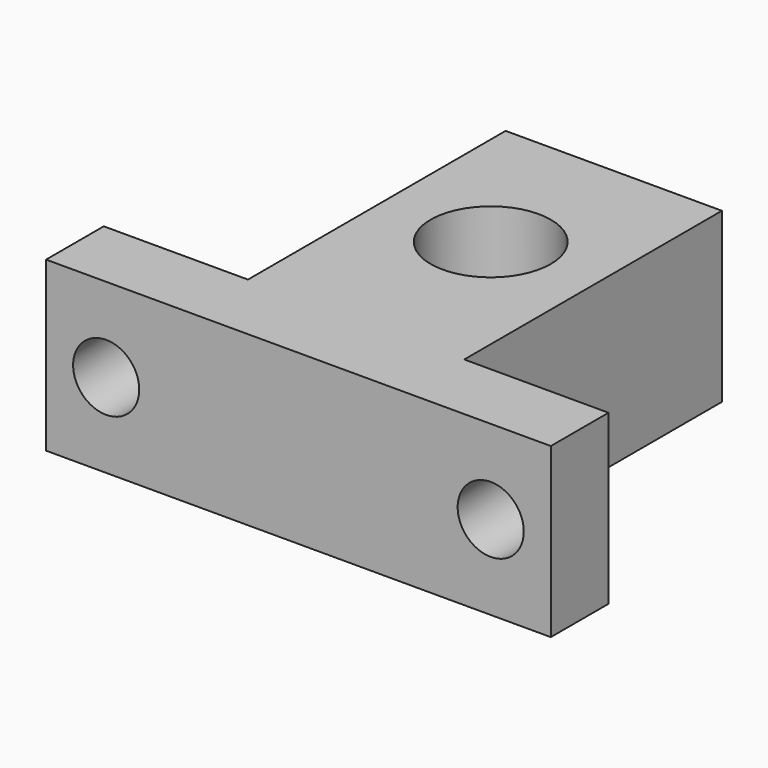
from build123d import *

# Parameters (mm, degrees)
F0_R     = 5
F1_DEPTH = 14
F2_R     = 2.75
F3_DEPTH = 6


with BuildPart() as f1:
    # F0 (on Top) → F1 (new body)
    with BuildSketch(Plane.XY):
        Polygon((9, 32.8), (-9, 32.8), (-9, 6), (-21, 6), (-21, 0), (21, 0), (21, 6), (9, 6), align=None)
        with Locations((0, 20)):
            Circle(F0_R, mode=Mode.SUBTRACT)
    extrude(amount=F1_DEPTH)

    # F2 (on Front) → F3 (cut)
    with BuildSketch(Plane.XZ):
        with Locations((-16, 7)):
            Circle(F2_R)
        with Locations((16, 7)):
            Circle(F2_R)
    extrude(amount=-F3_DEPTH, mode=Mode.SUBTRACT)


solid = f1.part
